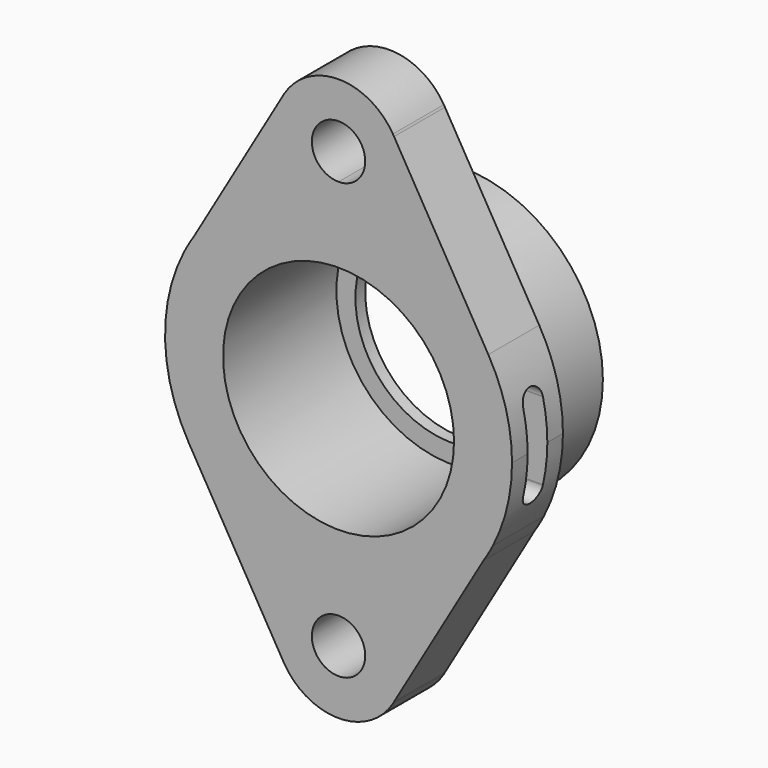
from build123d import *

# Parameters (mm, degrees)
F1_DEPTH  = 15.748
F2_R      = 34.925
F3_DEPTH  = 38.1
F4_R      = 23.876
F5_DEPTH  = 38.1
F6_R      = 23.876
F7_DEPTH  = 38.1
F9_DEPTH  = 50.8
F10_R     = 28.575
F10_R_2   = 23.876
F11_DEPTH = 35.052


with BuildPart() as f1:
    # F0 (on Front) → F1 (new body)
    with BuildSketch(Plane.XZ):
        with BuildLine():
            Line((35.867186, -23.583606), (38.19529, -19.589827))
            ThreePointArc((38.19529, -19.589827), (41.726565, -10.076469), (42.926, 0))
            ThreePointArc((42.926, 0), (41.43258, 11.224206), (37.056234, 21.667419))
            ThreePointArc((37.056234, 21.667419), (25.604433, 34.453657), (10.058576, 41.730882))
            ThreePointArc((10.058576, 41.730882), (5.346921, 39.035507), (0, 38.1))
            Line((0, 38.1), (0, 0))
            Line((0, 0), (0, -38.1))
            ThreePointArc((0, -38.1), (5.346921, -39.035507), (10.058576, -41.730882))
            ThreePointArc((10.058576, -41.730882), (24.690581, -35.114337), (35.867186, -23.583606))
        make_face()
        with BuildLine():
            ThreePointArc((35.867186, -23.583606), (37.085039, -21.618079), (38.19529, -19.589827))
            Line((38.19529, -19.589827), (35.867186, -23.583606))
        make_face()
        with BuildLine():
            Line((13.752612, -61.520364), (35.867186, -23.583606))
            ThreePointArc((35.867186, -23.583606), (24.690581, -35.114337), (10.058576, -41.730882))
            ThreePointArc((10.058576, -41.730882), (14.254858, -47.15483), (15.748, -53.848))
            ThreePointArc((15.748, -53.848), (15.240991, -57.811797), (13.752612, -61.520364))
        make_face()
        with BuildLine():
            ThreePointArc((10.058576, 41.730882), (25.604433, 34.453657), (37.056234, 21.667419))
            Line((37.056234, 21.667419), (13.73214, 61.556945))
            ThreePointArc((13.73214, 61.556945), (15.235702, 57.832078), (15.748, 53.848))
            ThreePointArc((15.748, 53.848), (14.254858, 47.15483), (10.058576, 41.730882))
        make_face()
        with BuildLine():
            ThreePointArc((6.604, -53.848), (4.669733, -49.178267), (0, -47.244))
            ThreePointArc((0, -47.244), (-4.669733, -58.517733), (6.604, -53.848))
        make_face()
        with BuildLine():
            ThreePointArc((15.748, -53.848), (14.254858, -47.15483), (10.058576, -41.730882))
            ThreePointArc((10.058576, -41.730882), (5.064663, -42.626173), (0, -42.926))
            ThreePointArc((0, -42.926), (-5.064663, -42.626173), (-10.058576, -41.730882))
            ThreePointArc((-10.058576, -41.730882), (-15.484435, -50.978895), (-13.73214, -61.556945))
            Line((-13.73214, -61.556945), (-13.452853, -62.034589))
            ThreePointArc((-13.452853, -62.034589), (0, -69.596), (13.452853, -62.034589))
            Line((13.452853, -62.034589), (13.752612, -61.520364))
            ThreePointArc((13.752612, -61.520364), (15.240991, -57.811797), (15.748, -53.848))
        make_face()
        with BuildLine():
            ThreePointArc((6.604, -53.848), (-4.669733, -58.517733), (0, -47.244))
            ThreePointArc((0, -47.244), (4.669733, -49.178267), (6.604, -53.848))
        make_face(mode=Mode.SUBTRACT)
        with BuildLine():
            ThreePointArc((13.452853, -62.034589), (13.605162, -61.778893), (13.752612, -61.520364))
            Line((13.752612, -61.520364), (13.452853, -62.034589))
        make_face()
        with BuildLine():
            ThreePointArc((6.604, 53.848), (-4.669733, 58.517733), (0, 47.244))
            ThreePointArc((0, 47.244), (4.669733, 49.178267), (6.604, 53.848))
        make_face()
        with BuildLine():
            ThreePointArc((0, 42.926), (5.064663, 42.626173), (10.058576, 41.730882))
            ThreePointArc((10.058576, 41.730882), (14.254858, 47.15483), (15.748, 53.848))
            ThreePointArc((15.748, 53.848), (15.235702, 57.832078), (13.73214, 61.556945))
            Line((13.73214, 61.556945), (13.452853, 62.034589))
            ThreePointArc((13.452853, 62.034589), (0, 69.596), (-13.452853, 62.034589))
            Line((-13.452853, 62.034589), (-13.755504, 61.515177))
            ThreePointArc((-13.755504, 61.515177), (-15.480058, 50.955369), (-10.058576, 41.730882))
            ThreePointArc((-10.058576, 41.730882), (-5.064663, 42.626173), (0, 42.926))
        make_face()
        with BuildLine():
            ThreePointArc((6.604, 53.848), (4.669733, 49.178267), (0, 47.244))
            ThreePointArc((0, 47.244), (-4.669733, 58.517733), (6.604, 53.848))
        make_face(mode=Mode.SUBTRACT)
        with BuildLine():
            Line((13.452853, 62.034589), (13.73214, 61.556945))
            ThreePointArc((13.73214, 61.556945), (13.594595, 61.796994), (13.452853, 62.034589))
        make_face()
        with BuildLine():
            ThreePointArc((-10.058576, -41.730882), (-5.346921, -39.035507), (0, -38.1))
            Line((0, -38.1), (0, 0))
            Line((0, 0), (0, 38.1))
            ThreePointArc((0, 38.1), (-5.346921, 39.035507), (-10.058576, 41.730882))
            ThreePointArc((-10.058576, 41.730882), (-24.629018, 35.157545), (-35.784322, 23.70915))
            Line((-35.784322, 23.70915), (-38.271037, 19.441429))
            ThreePointArc((-38.271037, 19.441429), (-42.90727, -1.267948), (-37.056234, -21.667418))
            ThreePointArc((-37.056234, -21.667418), (-25.604433, -34.453657), (-10.058576, -41.730882))
        make_face()
        with BuildLine():
            ThreePointArc((-13.73214, -61.556945), (-15.484435, -50.978895), (-10.058576, -41.730882))
            ThreePointArc((-10.058576, -41.730882), (-25.604433, -34.453657), (-37.056234, -21.667418))
            Line((-37.056234, -21.667418), (-13.73214, -61.556945))
        make_face()
        with BuildLine():
            ThreePointArc((-13.73214, -61.556945), (-13.594595, -61.796994), (-13.452853, -62.034589))
            Line((-13.452853, -62.034589), (-13.73214, -61.556945))
        make_face()
        with BuildLine():
            ThreePointArc((-35.784322, 23.70915), (-24.629018, 35.157545), (-10.058576, 41.730882))
            ThreePointArc((-10.058576, 41.730882), (-15.480058, 50.955369), (-13.755504, 61.515177))
            Line((-13.755504, 61.515177), (-35.784322, 23.70915))
        make_face()
        with BuildLine():
            Line((-13.755504, 61.515177), (-13.452853, 62.034589))
            ThreePointArc((-13.452853, 62.034589), (-13.606657, 61.776328), (-13.755504, 61.515177))
        make_face()
        with BuildLine():
            Line((-38.271037, 19.441429), (-35.784322, 23.70915))
            ThreePointArc((-35.784322, 23.70915), (-37.089114, 21.611087), (-38.271037, 19.441429))
        make_face()
        with BuildLine():
            ThreePointArc((0, 38.1), (5.346921, 39.035507), (10.058576, 41.730882))
            ThreePointArc((10.058576, 41.730882), (5.064663, 42.626173), (0, 42.926))
            Line((0, 42.926), (0, 38.1))
        make_face()
        with BuildLine():
            Line((0, 38.1), (0, 42.926))
            ThreePointArc((0, 42.926), (-5.064663, 42.626173), (-10.058576, 41.730882))
            ThreePointArc((-10.058576, 41.730882), (-5.346921, 39.035507), (0, 38.1))
        make_face()
        with BuildLine():
            ThreePointArc((0, -42.926), (5.064663, -42.626173), (10.058576, -41.730882))
            ThreePointArc((10.058576, -41.730882), (5.346921, -39.035507), (0, -38.1))
            Line((0, -38.1), (0, -42.926))
        make_face()
        with BuildLine():
            ThreePointArc((-10.058576, -41.730882), (-5.064663, -42.626173), (0, -42.926))
            Line((0, -42.926), (0, -38.1))
            ThreePointArc((0, -38.1), (-5.346921, -39.035507), (-10.058576, -41.730882))
        make_face()
    extrude(amount=F1_DEPTH)

    # F2 (on face) → F3 (join)
    with BuildSketch(Plane.XZ.offset(15.748)):
        Circle(F2_R)
    extrude(amount=-F3_DEPTH)

    # F4 (on face) → F5 (join)
    with BuildSketch(Plane.XZ.offset(15.748)):
        Circle(F4_R)
    extrude(amount=-F5_DEPTH)

    # F6 (on face) → F7 (cut)
    with BuildSketch(Plane.XZ.offset(15.748)):
        Circle(F6_R)
    extrude(amount=-F7_DEPTH, mode=Mode.SUBTRACT)

    # F8 (on Right) → F9 (cut)
    with BuildSketch(Plane.YZ):
        with BuildLine():
            Line((-7.874, 6.604), (-7.874, 0))
            Line((-7.874, 0), (-7.874, -6.604))
            ThreePointArc((-7.874, -6.604), (-5.75692, -7.459222), (-4.82788, -9.544963))
            Line((-4.82788, -9.544963), (-4.82788, 9.544963))
            ThreePointArc((-4.82788, 9.544963), (-5.75692, 7.459222), (-7.874, 6.604))
        make_face()
        with BuildLine():
            Line((-7.874, -6.604), (-7.874, 0))
            Line((-7.874, 0), (-7.874, 6.604))
            ThreePointArc((-7.874, 6.604), (-10.029157, 7.496634), (-10.922, 9.651705))
            Line((-10.922, 9.651705), (-10.920141, -9.545553))
            ThreePointArc((-10.920141, -9.545553), (-9.991292, -7.459427), (-7.874, -6.604))
        make_face()
        with BuildLine():
            ThreePointArc((-4.82788, -9.544963), (-5.75692, -7.459222), (-7.874, -6.604))
            ThreePointArc((-7.874, -6.604), (-9.991292, -7.459427), (-10.920141, -9.545553))
            Line((-10.920141, -9.545553), (-10.92012, -9.759037))
            ThreePointArc((-10.92012, -9.759037), (-7.874, -12.7), (-4.82788, -9.759037))
            Line((-4.82788, -9.759037), (-4.82788, -9.544963))
        make_face()
        with BuildLine():
            ThreePointArc((-10.922, 9.651705), (-10.029157, 7.496634), (-7.874, 6.604))
            ThreePointArc((-7.874, 6.604), (-5.75692, 7.459222), (-4.82788, 9.544963))
            ThreePointArc((-4.82788, 9.544963), (-4.82647, 9.598473), (-4.826, 9.652))
            ThreePointArc((-4.826, 9.652), (-7.874148, 12.7), (-10.922, 9.651705))
        make_face()
        with BuildLine():
            ThreePointArc((-4.826, -9.652), (-4.82647, -9.598473), (-4.82788, -9.544963))
            Line((-4.82788, -9.544963), (-4.82788, -9.759037))
            ThreePointArc((-4.82788, -9.759037), (-4.82647, -9.705527), (-4.826, -9.652))
        make_face()
        with BuildLine():
            Line((-10.92012, -9.759037), (-10.920141, -9.545553))
            ThreePointArc((-10.920141, -9.545553), (-10.922, -9.652295), (-10.92012, -9.759037))
        make_face()
    extrude(amount=F9_DEPTH, mode=Mode.SUBTRACT)

    # F10 (on face) → F11 (cut)
    with BuildSketch(Plane.XZ.offset(15.748)):
        Circle(F10_R)
        Circle(F10_R_2, mode=Mode.SUBTRACT)
    extrude(amount=-F11_DEPTH, mode=Mode.SUBTRACT)


solid = f1.part
